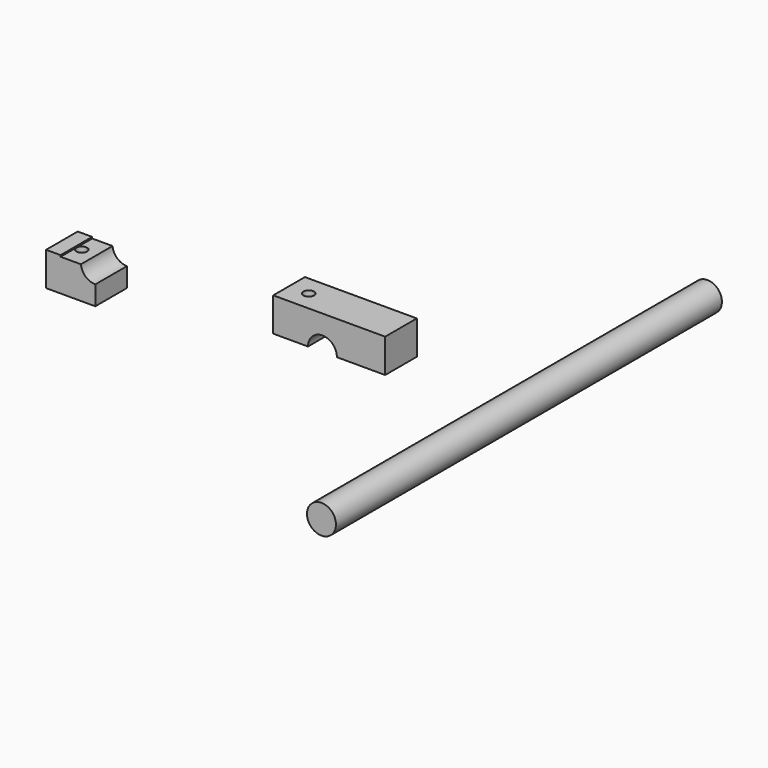
from build123d import *

# Parameters (mm, degrees)
F4_DEPTH  = 4.1
F5_R      = 1.1
F6_DEPTH  = 7.001
F8_DEPTH  = 4.1
F9_R      = 3
F10_DEPTH = 50
F11_R     = 1.1
F12_DEPTH = 14.001


with BuildPart() as f4:
    # F3 (on Front) → F4 (new body, symmetric)
    with BuildSketch(Plane.XZ):
        with BuildLine():
            Line((-10.2, 7), (-10.2, 0))
            Line((-10.2, 0), (-3, 0))
            ThreePointArc((-3, 0), (0, 3), (3, 0))
            Line((3, 0), (13, 0))
            Line((13, 0), (13, 7))
            Line((13, 7), (-10.2, 7))
        make_face()
    extrude(amount=F4_DEPTH, both=True)

    # F5 (on face) → F6 (cut, through all)
    with BuildSketch(Plane.XY.offset(7)):
        with Locations((-6.1, 0)):
            Circle(F5_R)
    extrude(amount=-F6_DEPTH, mode=Mode.SUBTRACT)


with BuildPart() as f8:
    # F7 (on Front) → F8 (new body, symmetric)
    with BuildSketch(Plane.XZ):
        with BuildLine():
            Line((-54.2830354646, 0), (-57.2830354646, 0))
            Line((-57.2830354646, 0), (-57.2830354646, -7))
            Line((-57.2830354646, -7), (-47.0830354646, -7))
            Line((-47.0830354646, -7), (-47.0830354646, -3))
            ThreePointArc((-47.0830354646, -3), (-49.0954966443, -2.2248595461), (-50.0679977759, -0.3))
            Line((-50.0679977759, -0.3), (-54.2830354646, -0.3))
            Line((-54.2830354646, -0.3), (-54.2830354646, 0))
        make_face()
    extrude(amount=F8_DEPTH, both=True)

    # F11 (on face) → F12 (cut, through all)
    with BuildSketch(Plane(origin=(0, 0, -7), x_dir=(1, 0, 0), z_dir=(0, 0, -1))):
        with Locations((-53.1679977759, 0)):
            Circle(F11_R)
    extrude(amount=-F12_DEPTH, mode=Mode.SUBTRACT)


with BuildPart() as f10:
    # F9 (on Front) → F10 (new body, symmetric)
    with BuildSketch(Plane.XZ):
        with Locations((36.5195933817, 0)):
            Circle(F9_R)
    extrude(amount=F10_DEPTH, both=True)


solid = Compound([f4.part, f8.part, f10.part])
